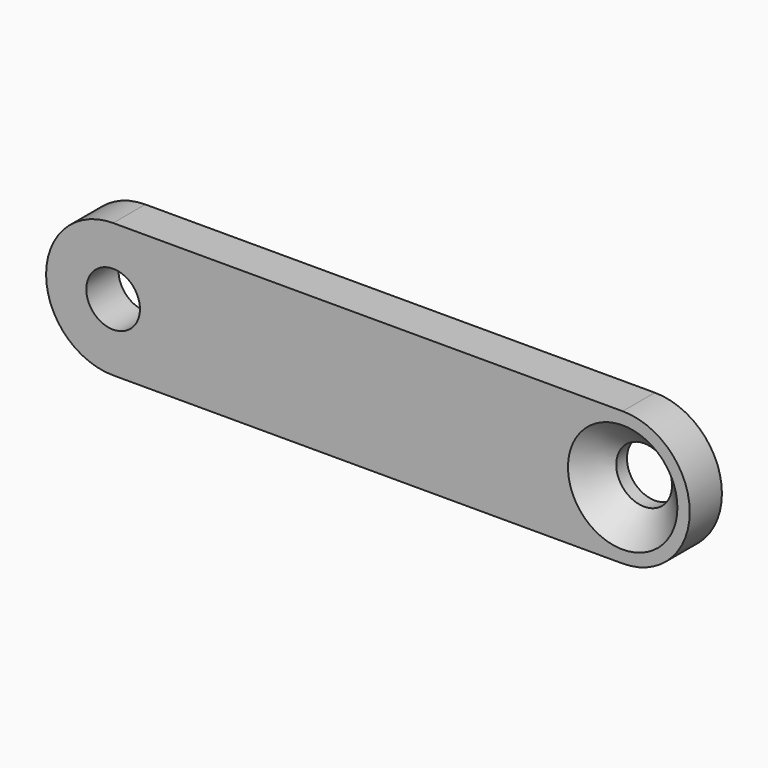
from build123d import *

# Parameters (mm, degrees)
F0_R     = 1.5875
F0_R_2   = 1.651
F1_DEPTH = 2.38125
F2_SIZE2 = 1.5875
F2_SIZE  = 1.5875


with BuildPart() as f1:
    # F0 (on Front) → F1 (new body)
    with BuildSketch(Plane.XZ):
        with BuildLine():
            Line((17.269202, 3.96875), (-12.893298, 3.96875))
            ThreePointArc((-12.893298, 3.96875), (-16.862048, 0), (-12.893298, -3.96875))
            Line((-12.893298, -3.96875), (17.269202, -3.96875))
            ThreePointArc((17.269202, -3.96875), (21.237952, 0), (17.269202, 3.96875))
        make_face()
        with Locations((-12.893298, 0)):
            Circle(F0_R, mode=Mode.SUBTRACT)
        with Locations((17.269202, 0)):
            Circle(F0_R_2, mode=Mode.SUBTRACT)
    extrude(amount=F1_DEPTH)

    # F2
    f2_edges = [f1.edges().sort_by_distance(p)[0] for p in [
        (15.618202, -2.38125, 0),
    ]]
    chamfer(f2_edges, length=F2_SIZE, length2=F2_SIZE2)


solid = f1.part
